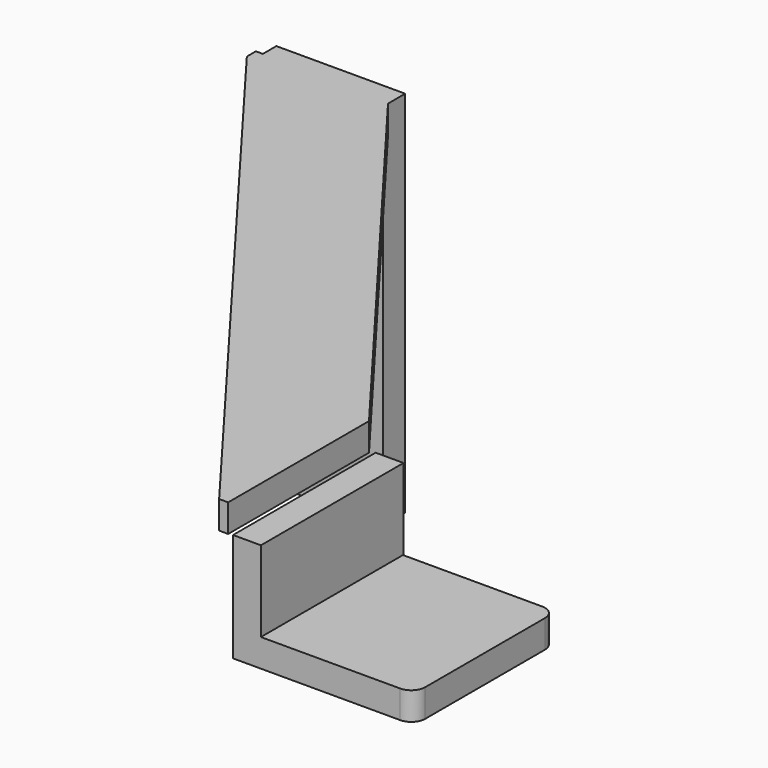
from build123d import *

# Parameters (mm, degrees)
BOX026_W           = 66
BOX026_H           = 87.48
BOX026_DEPTH       = 4
CHAMFER001_1_SIZE2 = 64.7
CHAMFER001_1_SIZE  = 85.85
CHAMFER001_2_SIZE2 = 47
CHAMFER001_2_SIZE  = 62.2
BOX027_W           = 4
BOX027_H           = 25.6
BOX027_DEPTH       = 15.6
BOX025_W           = 22
BOX025_H           = 25.5
BOX025_DEPTH       = 4
FILLET010_R        = 2
BOX028_W           = 18.5
BOX028_H           = 4
BOX028_DEPTH       = 53


with BuildPart() as chamfer001:
    # Box026 → Box026 (new body)
    with BuildSketch(Plane(origin=(-50.2, -4.9, 60), x_dir=(1, 0, 0), z_dir=(0, 0, 1))):
        with Locations((33, 43.74)):
            Rectangle(BOX026_W, BOX026_H)
    extrude(amount=BOX026_DEPTH)

    # Chamfer001 1
    chamfer001_1_edges = [chamfer001.edges().sort_by_distance(p)[0] for p in [
        (-50.2, -4.9, 62),
    ]]
    chamfer001_1_side = chamfer001.faces().sort_by_distance((-50.2, 38.84, 62))[0]
    chamfer(chamfer001_1_edges, length=CHAMFER001_1_SIZE, length2=CHAMFER001_1_SIZE2, reference=chamfer001_1_side)

    # Chamfer001 2
    chamfer001_2_edges = [chamfer001.edges().sort_by_distance(p)[0] for p in [
        (15.8, 82.58, 62),
    ]]
    chamfer001_2_side = chamfer001.faces().sort_by_distance((15.8, 38.84, 62))[0]
    chamfer(chamfer001_2_edges, length=CHAMFER001_2_SIZE, length2=CHAMFER001_2_SIZE2, reference=chamfer001_2_side)


with BuildPart() as box027:
    # Box027 → Box027 (new body)
    with BuildSketch(Plane(origin=(16.5, -4.9, 44.5), x_dir=(1, 0, 0), z_dir=(0, 0, 1))):
        with Locations((2, 12.8)):
            Rectangle(BOX027_W, BOX027_H)
    extrude(amount=BOX027_DEPTH)


with BuildPart() as fillet010:
    # Box025 → Box025 (new body)
    with BuildSketch(Plane(origin=(20.5, -4.9, 44.5), x_dir=(1, 0, 0), z_dir=(0, 0, 1))):
        with Locations((11, 12.75)):
            Rectangle(BOX025_W, BOX025_H)
    extrude(amount=BOX025_DEPTH)

    # Fillet010
    fillet010_edges = [fillet010.edges().sort_by_distance(p)[0] for p in [
        (42.5, -4.9, 46.5),
        (42.5, 20.6, 46.5),
    ]]
    fillet(fillet010_edges, radius=FILLET010_R)


with BuildPart() as fusion002008006003002:
    # Box028 → Box028 (new body)
    with BuildSketch(Plane(origin=(-49.2, 81, 11), x_dir=(1, 0, 0), z_dir=(0, 0, 1))):
        with Locations((9.25, 2)):
            Rectangle(BOX028_W, BOX028_H)
    extrude(amount=BOX028_DEPTH)

    # Fusion002008006003002: union Chamfer001, Box027, Fillet010
    add(chamfer001.part)
    add(box027.part)
    add(fillet010.part)


solid = fusion002008006003002.part
